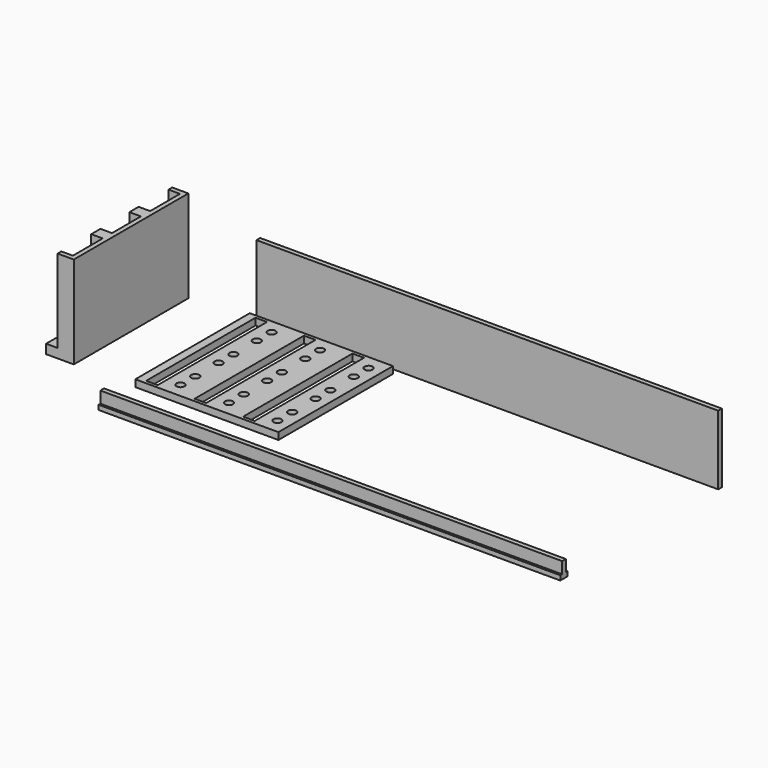
from build123d import *

# Parameters (mm, degrees)
F0_W      = 62
F0_H      = 62
F1_DEPTH  = 3
F2_R      = 1.75
F2_W      = 5
F2_H      = 59.2
F3_DEPTH  = 25
F4_W      = 10
F4_H      = 62
F4_R      = 1.5
F5_DEPTH  = 4
F6_W      = 5
F6_H      = 2
F6_H_2    = 5
F7_DEPTH  = 40
F8_W      = 200
F8_H      = 2
F9_DEPTH  = 30
F10_W     = 200
F10_H     = 4
F11_DEPTH = 2
F12_W     = 200
F12_H     = 2
F13_DEPTH = 5


with BuildPart() as f1:
    # F0 (on Top) → F1 (new body)
    with BuildSketch(Plane.XY):
        with Locations((-69.7313, 0)):
            Rectangle(F0_W, F0_H)
    extrude(amount=F1_DEPTH)

    # F2 (on face) → F3 (cut)
    with BuildSketch(Plane.XY.offset(3)):
        with Locations((-86.2313, 24.67)):
            Circle(F2_R)
        with Locations((-86.2313, 16.67)):
            Circle(F2_R)
        with Locations((-86.2313, 4.01)):
            Circle(F2_R)
        with Locations((-86.2313, -3.99)):
            Circle(F2_R)
        with Locations((-86.2313, -16.65)):
            Circle(F2_R)
        with Locations((-86.2313, -24.65)):
            Circle(F2_R)
        with Locations((-65.2313, 24.67)):
            Circle(F2_R)
        with Locations((-65.2313, 16.67)):
            Circle(F2_R)
        with Locations((-65.2313, 4.01)):
            Circle(F2_R)
        with Locations((-65.2313, -3.99)):
            Circle(F2_R)
        with Locations((-65.2313, -16.65)):
            Circle(F2_R)
        with Locations((-65.2313, -24.65)):
            Circle(F2_R)
        with Locations((-44.2313, 24.67)):
            Circle(F2_R)
        with Locations((-44.2313, 16.67)):
            Circle(F2_R)
        with Locations((-44.2313, 4.01)):
            Circle(F2_R)
        with Locations((-44.2313, -3.99)):
            Circle(F2_R)
        with Locations((-44.2313, -16.65)):
            Circle(F2_R)
        with Locations((-44.2313, -24.65)):
            Circle(F2_R)
        with Locations((-94.6513, 0)):
            Rectangle(F2_W, F2_H)
        with Locations((-73.6513, 0)):
            Rectangle(F2_W, F2_H)
        with Locations((-52.6513, 0)):
            Rectangle(F2_W, F2_H)
    extrude(amount=-F3_DEPTH, mode=Mode.SUBTRACT)


with BuildPart() as f5:
    # F4 (on Top) → F5 (new body)
    with BuildSketch(Plane.XY):
        with Locations((-134.366446, 0)):
            Rectangle(F4_W, F4_H)
        with Locations((-134.366446, -20)):
            Circle(F4_R, mode=Mode.SUBTRACT)
        with Locations((-134.366446, 0)):
            Circle(F4_R, mode=Mode.SUBTRACT)
        with Locations((-134.366446, 20)):
            Circle(F4_R, mode=Mode.SUBTRACT)
    extrude(amount=F5_DEPTH)

    # F6 (on Top) → F7 (join)
    with BuildSketch(Plane.XY):
        Polygon((-129.366446, -31), (-127.366446, -31), (-127.366446, 31), (-129.366446, 31), (-129.366446, 29), (-129.366446, 12.84), (-129.366446, 7.84), (-129.366446, -7.82), (-129.366446, -12.82), (-129.366446, -29), align=None)
        with Locations((-131.866446, -30)):
            Rectangle(F6_W, F6_H)
        with Locations((-131.866446, 30)):
            Rectangle(F6_W, F6_H)
        with Locations((-131.866446, -10.32)):
            Rectangle(F6_W, F6_H_2)
        with Locations((-131.866446, 10.34)):
            Rectangle(F6_W, F6_H_2)
    extrude(amount=F7_DEPTH)


with BuildPart() as f9:
    # F8 (on Top) → F9 (new body)
    with BuildSketch(Plane.XY):
        with Locations((0, 34.685362)):
            Rectangle(F8_W, F8_H)
    extrude(amount=F9_DEPTH)


with BuildPart() as f11:
    # F10 (on Top) → F11 (new body)
    with BuildSketch(Plane.XY):
        with Locations((0, -49.825105)):
            Rectangle(F10_W, F10_H)
    extrude(amount=F11_DEPTH)

    # F12 (on face) → F13 (join)
    with BuildSketch(Plane.XY.offset(2)):
        with Locations((0, -49.825105)):
            Rectangle(F12_W, F12_H)
    extrude(amount=F13_DEPTH)


solid = Compound([f1.part, f5.part, f9.part, f11.part])
